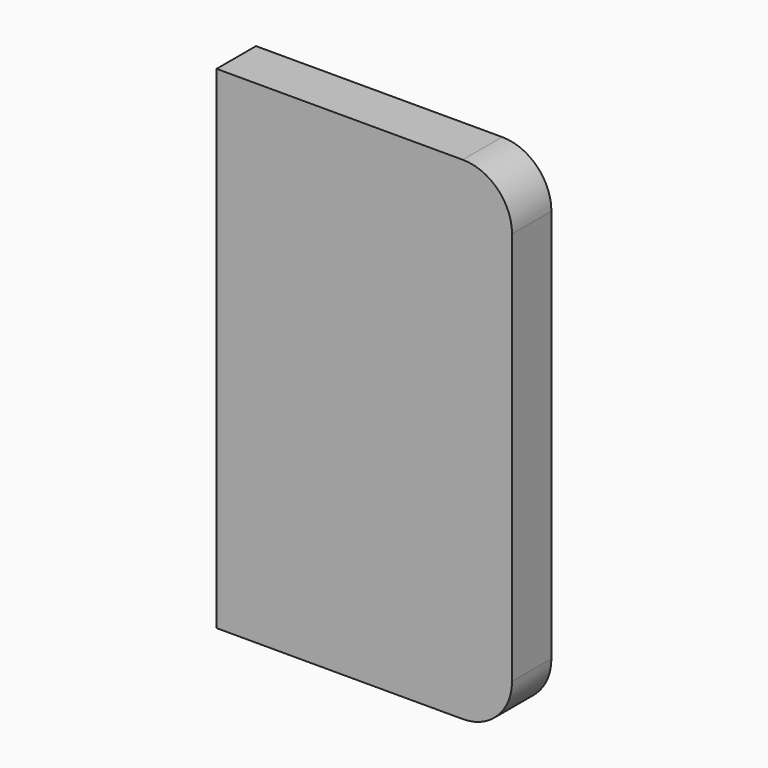
from build123d import *

# Parameters (mm, degrees)
F0_W     = 120
F0_H     = 200
F1_DEPTH = 10
F2_R     = 20


with BuildPart() as f1:
    # F0 (on Front) → F1 (new body, symmetric)
    with BuildSketch(Plane.XZ):
        Rectangle(F0_W, F0_H)
    extrude(amount=F1_DEPTH, both=True)

    # F2
    f2_edges = [f1.edges().sort_by_distance(p)[0] for p in [
        (60, 0, 100),
        (60, 0, -100),
    ]]
    fillet(f2_edges, radius=F2_R)


solid = f1.part
